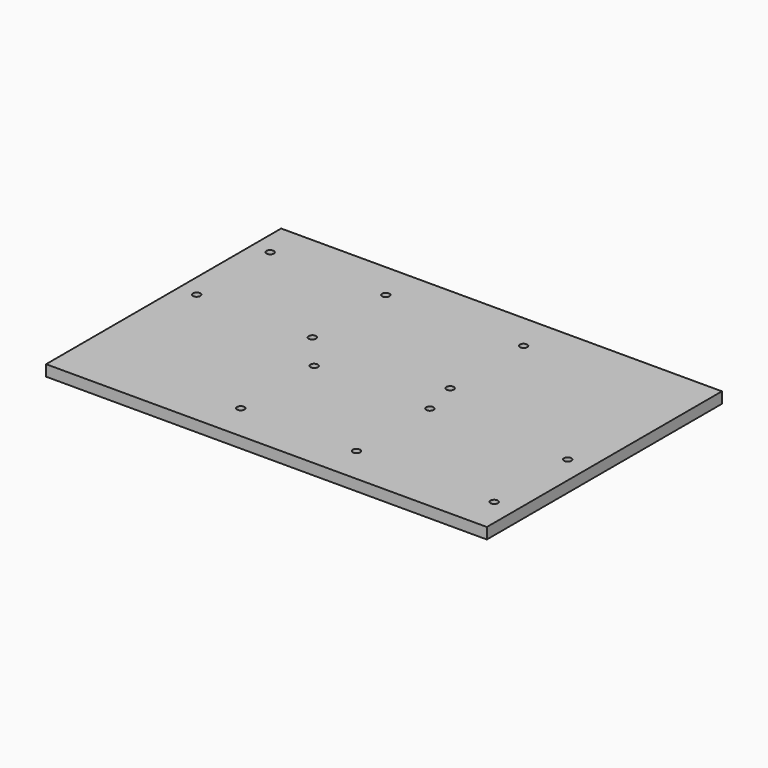
from build123d import *

# Parameters (mm, degrees)
F0_W     = 120
F0_H     = 80
F1_DEPTH = 3
F3_D     = 2


with BuildPart() as f1:
    # F0 (on Top) → F1 (new body)
    with BuildSketch(Plane.XY):
        with Locations((60, 40)):
            Rectangle(F0_W, F0_H)
    extrude(amount=-F1_DEPTH)

    # F3 (through all)
    with Locations(Plane.XY):
        with Locations((5, 70), (76.5, 35), (114, 10), (114, 35), (76.5, 10), (74, 45), (45, 10), (45, 35), (36.5, 70), (74, 70), (5, 45), (36.5, 45)):
            Hole(F3_D / 2)


solid = f1.part
